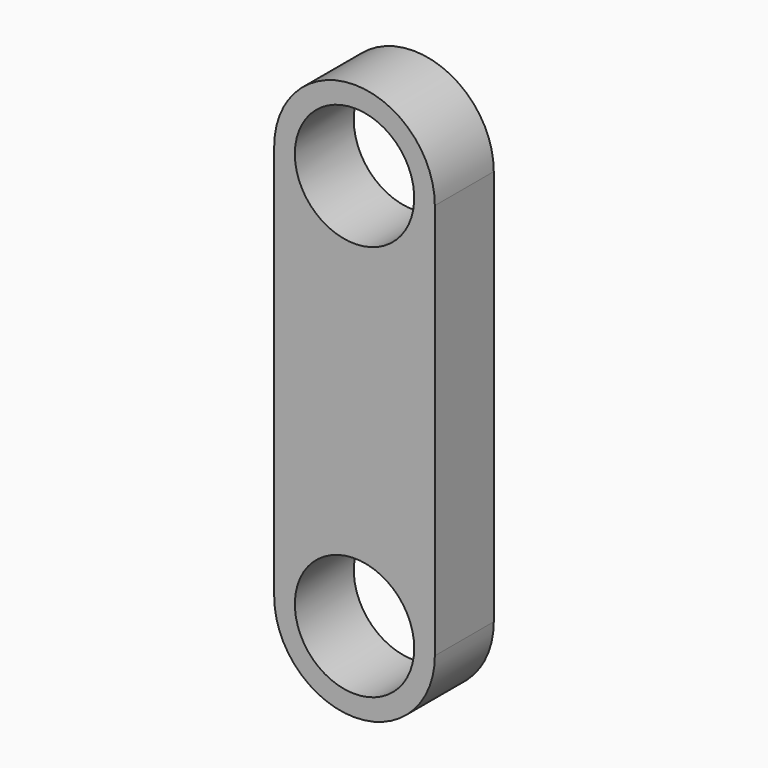
from build123d import *

# Parameters (mm, degrees)
F1_DEPTH = 50.8


with BuildPart() as f1:
    # F0 (on Front) → F1 (new body)
    with BuildSketch(Plane.XZ):
        with BuildLine():
            ThreePointArc((-55.372, 136.61499), (0, 81.24299), (55.372, 136.61499))
            Line((55.372, 136.61499), (41.148, 136.61499))
            ThreePointArc((41.148, 136.61499), (0, 95.46699), (-41.148, 136.61499))
            Line((-41.148, 136.61499), (-55.372, 136.61499))
        make_face()
        with BuildLine():
            Line((41.148, 136.61499), (55.372, 136.61499))
            ThreePointArc((55.372, 136.61499), (0, 191.98699), (-55.372, 136.61499))
            Line((-55.372, 136.61499), (-41.148, 136.61499))
            ThreePointArc((-41.148, 136.61499), (0, 177.76299), (41.148, 136.61499))
        make_face()
        with BuildLine():
            ThreePointArc((-55.372, -136.61499), (0, -81.24299), (55.372, -136.61499))
            Line((55.372, -136.61499), (55.372, 136.61499))
            ThreePointArc((55.372, 136.61499), (0, 81.24299), (-55.372, 136.61499))
            Line((-55.372, 136.61499), (-55.372, -136.61499))
        make_face()
        with BuildLine():
            Line((41.148, -136.61499), (55.372, -136.61499))
            ThreePointArc((55.372, -136.61499), (0, -81.24299), (-55.372, -136.61499))
            Line((-55.372, -136.61499), (-41.148, -136.61499))
            ThreePointArc((-41.148, -136.61499), (0, -95.46699), (41.148, -136.61499))
        make_face()
        with BuildLine():
            ThreePointArc((-55.372, -136.61499), (0, -191.98699), (55.372, -136.61499))
            Line((55.372, -136.61499), (41.148, -136.61499))
            ThreePointArc((41.148, -136.61499), (0, -177.76299), (-41.148, -136.61499))
            Line((-41.148, -136.61499), (-55.372, -136.61499))
        make_face()
    extrude(amount=F1_DEPTH)


solid = f1.part
